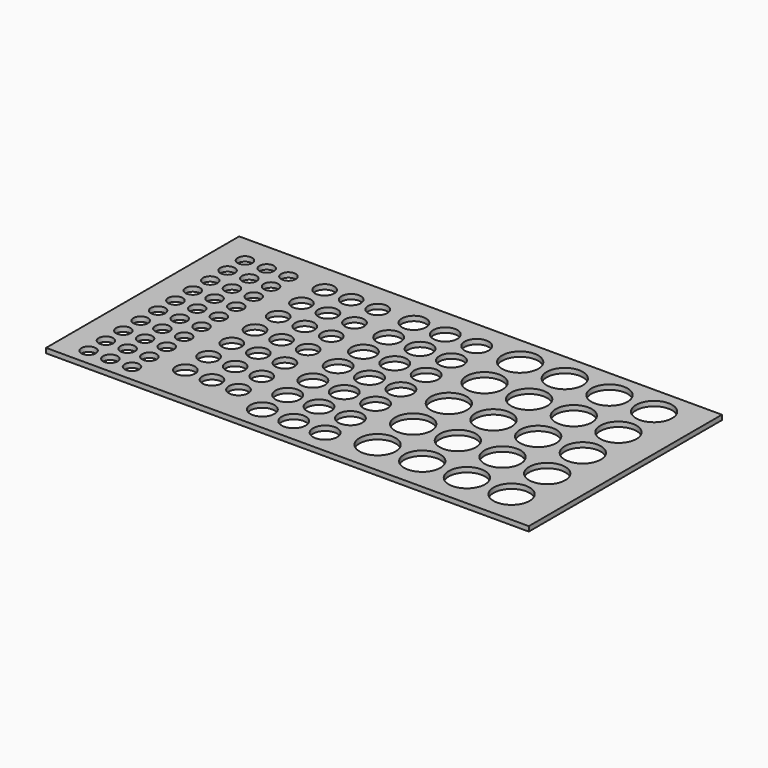
from build123d import *

# Parameters (mm, degrees)
F0_W     = 20
F0_H     = 10
F0_R     = 0.4
F0_R_2   = 0.5
F0_R_3   = 0.75
F1_DEPTH = 0.2


with BuildPart() as f1:
    # F0 (on Top) → F1 (new body)
    with BuildSketch(Plane.XY):
        with Locations((10, -5)):
            Rectangle(F0_W, F0_H)
        with BuildLine():
            add(Edge.make_bspline(
                [(1.477593, -9.413765), (1.524216, -9.3), (1.477593, -9.186235)],
                knots=[0, 0, 0, 0.777896, 0.777896, 0.777896], degree=2, weights=[1, 0.925308, 1]))
            add(Edge.make_bspline(
                [(1.477593, -9.186235), (1.328947, -8.823532), (1.017669, -9.061766), (0.706391, -9.3), (1.017669, -9.538234), (1.328947, -9.776468), (1.477593, -9.413765)],
                knots=[0.777896, 0.777896, 0.777896, 2.612993, 2.612993, 4.448089, 4.448089, 6.283185, 6.283185, 6.283185], degree=2, weights=[1, 0.607769, 1, 0.607769, 1, 0.607769, 1]))
        make_face(mode=Mode.SUBTRACT)
        with BuildLine():
            add(Edge.make_bspline(
                [(2.377593, -9.186235), (2.228947, -8.823532), (1.917669, -9.061766), (1.606391, -9.3), (1.917669, -9.538234), (2.228947, -9.776468), (2.377593, -9.413765)],
                knots=[0, 0, 0, 1.835096, 1.835096, 3.670193, 3.670193, 5.505289, 5.505289, 5.505289], degree=2, weights=[1, 0.607769, 1, 0.607769, 1, 0.607769, 1]))
            add(Edge.make_bspline(
                [(2.377593, -9.413765), (2.424216, -9.3), (2.377593, -9.186235)],
                knots=[5.505289, 5.505289, 5.505289, 6.283185, 6.283185, 6.283185], degree=2, weights=[1, 0.925308, 1]))
        make_face(mode=Mode.SUBTRACT)
        with BuildLine():
            add(Edge.make_bspline(
                [(3.277593, -9.186235), (3.128947, -8.823532), (2.817669, -9.061766), (2.506391, -9.3), (2.817669, -9.538234), (3.128947, -9.776468), (3.277593, -9.413765)],
                knots=[0, 0, 0, 1.835096, 1.835096, 3.670193, 3.670193, 5.505289, 5.505289, 5.505289], degree=2, weights=[1, 0.607769, 1, 0.607769, 1, 0.607769, 1]))
            add(Edge.make_bspline(
                [(3.277593, -9.413765), (3.324216, -9.3), (3.277593, -9.186235)],
                knots=[5.505289, 5.505289, 5.505289, 6.283185, 6.283185, 6.283185], degree=2, weights=[1, 0.925308, 1]))
        make_face(mode=Mode.SUBTRACT)
        with BuildLine():
            add(Edge.make_bspline(
                [(1.477593, -8.513765), (1.524216, -8.4), (1.477593, -8.286235)],
                knots=[0, 0, 0, 0.777896, 0.777896, 0.777896], degree=2, weights=[1, 0.925308, 1]))
            add(Edge.make_bspline(
                [(1.477593, -8.286235), (1.328947, -7.923532), (1.017669, -8.161766), (0.706391, -8.4), (1.017669, -8.638234), (1.328947, -8.876468), (1.477593, -8.513765)],
                knots=[0.777896, 0.777896, 0.777896, 2.612993, 2.612993, 4.448089, 4.448089, 6.283185, 6.283185, 6.283185], degree=2, weights=[1, 0.607769, 1, 0.607769, 1, 0.607769, 1]))
        make_face(mode=Mode.SUBTRACT)
        with BuildLine():
            add(Edge.make_bspline(
                [(2.377593, -8.286235), (2.228947, -7.923532), (1.917669, -8.161766), (1.606391, -8.4), (1.917669, -8.638234), (2.228947, -8.876468), (2.377593, -8.513765)],
                knots=[0, 0, 0, 1.835096, 1.835096, 3.670193, 3.670193, 5.505289, 5.505289, 5.505289], degree=2, weights=[1, 0.607769, 1, 0.607769, 1, 0.607769, 1]))
            add(Edge.make_bspline(
                [(2.377593, -8.513765), (2.424216, -8.4), (2.377593, -8.286235)],
                knots=[5.505289, 5.505289, 5.505289, 6.283185, 6.283185, 6.283185], degree=2, weights=[1, 0.925308, 1]))
        make_face(mode=Mode.SUBTRACT)
        with BuildLine():
            add(Edge.make_bspline(
                [(3.277593, -8.286235), (3.128947, -7.923532), (2.817669, -8.161766), (2.506391, -8.4), (2.817669, -8.638234), (3.128947, -8.876468), (3.277593, -8.513765)],
                knots=[0, 0, 0, 1.835096, 1.835096, 3.670193, 3.670193, 5.505289, 5.505289, 5.505289], degree=2, weights=[1, 0.607769, 1, 0.607769, 1, 0.607769, 1]))
            add(Edge.make_bspline(
                [(3.277593, -8.513765), (3.324216, -8.4), (3.277593, -8.286235)],
                knots=[5.505289, 5.505289, 5.505289, 6.283185, 6.283185, 6.283185], degree=2, weights=[1, 0.925308, 1]))
        make_face(mode=Mode.SUBTRACT)
        with Locations((4.492105, -8.399996)):
            Circle(F0_R, mode=Mode.SUBTRACT)
        with Locations((8.160205, -8.999898)):
            Circle(F0_R_2, mode=Mode.SUBTRACT)
        with Locations((9.460205, -8.999898)):
            Circle(F0_R_2, mode=Mode.SUBTRACT)
        with Locations((5.592105, -8.399996)):
            Circle(F0_R, mode=Mode.SUBTRACT)
        with Locations((6.692105, -8.399996)):
            Circle(F0_R, mode=Mode.SUBTRACT)
        with Locations((8.166837, -7.699915)):
            Circle(F0_R_2, mode=Mode.SUBTRACT)
        with Locations((9.466837, -7.699915)):
            Circle(F0_R_2, mode=Mode.SUBTRACT)
        with BuildLine():
            add(Edge.make_bspline(
                [(1.477593, -7.613765), (1.524216, -7.5), (1.477593, -7.386235)],
                knots=[0, 0, 0, 0.777896, 0.777896, 0.777896], degree=2, weights=[1, 0.925308, 1]))
            add(Edge.make_bspline(
                [(1.477593, -7.386235), (1.328947, -7.023532), (1.017669, -7.261766), (0.706391, -7.5), (1.017669, -7.738234), (1.328947, -7.976468), (1.477593, -7.613765)],
                knots=[0.777896, 0.777896, 0.777896, 2.612993, 2.612993, 4.448089, 4.448089, 6.283185, 6.283185, 6.283185], degree=2, weights=[1, 0.607769, 1, 0.607769, 1, 0.607769, 1]))
        make_face(mode=Mode.SUBTRACT)
        with BuildLine():
            add(Edge.make_bspline(
                [(2.377593, -7.386235), (2.228947, -7.023532), (1.917669, -7.261766), (1.606391, -7.5), (1.917669, -7.738234), (2.228947, -7.976468), (2.377593, -7.613765)],
                knots=[0, 0, 0, 1.835096, 1.835096, 3.670193, 3.670193, 5.505289, 5.505289, 5.505289], degree=2, weights=[1, 0.607769, 1, 0.607769, 1, 0.607769, 1]))
            add(Edge.make_bspline(
                [(2.377593, -7.613765), (2.424216, -7.5), (2.377593, -7.386235)],
                knots=[5.505289, 5.505289, 5.505289, 6.283185, 6.283185, 6.283185], degree=2, weights=[1, 0.925308, 1]))
        make_face(mode=Mode.SUBTRACT)
        with BuildLine():
            add(Edge.make_bspline(
                [(1.477593, -6.713765), (1.524216, -6.6), (1.477593, -6.486235)],
                knots=[0, 0, 0, 0.777896, 0.777896, 0.777896], degree=2, weights=[1, 0.925308, 1]))
            add(Edge.make_bspline(
                [(1.477593, -6.486235), (1.328947, -6.123532), (1.017669, -6.361766), (0.706391, -6.6), (1.017669, -6.838234), (1.328947, -7.076468), (1.477593, -6.713765)],
                knots=[0.777896, 0.777896, 0.777896, 2.612993, 2.612993, 4.448089, 4.448089, 6.283185, 6.283185, 6.283185], degree=2, weights=[1, 0.607769, 1, 0.607769, 1, 0.607769, 1]))
        make_face(mode=Mode.SUBTRACT)
        with BuildLine():
            add(Edge.make_bspline(
                [(2.377593, -6.486235), (2.228947, -6.123532), (1.917669, -6.361766), (1.606391, -6.6), (1.917669, -6.838234), (2.228947, -7.076468), (2.377593, -6.713765)],
                knots=[0, 0, 0, 1.835096, 1.835096, 3.670193, 3.670193, 5.505289, 5.505289, 5.505289], degree=2, weights=[1, 0.607769, 1, 0.607769, 1, 0.607769, 1]))
            add(Edge.make_bspline(
                [(2.377593, -6.713765), (2.424216, -6.6), (2.377593, -6.486235)],
                knots=[5.505289, 5.505289, 5.505289, 6.283185, 6.283185, 6.283185], degree=2, weights=[1, 0.925308, 1]))
        make_face(mode=Mode.SUBTRACT)
        with BuildLine():
            add(Edge.make_bspline(
                [(3.277593, -7.386235), (3.128947, -7.023532), (2.817669, -7.261766), (2.506391, -7.5), (2.817669, -7.738234), (3.128947, -7.976468), (3.277593, -7.613765)],
                knots=[0, 0, 0, 1.835096, 1.835096, 3.670193, 3.670193, 5.505289, 5.505289, 5.505289], degree=2, weights=[1, 0.607769, 1, 0.607769, 1, 0.607769, 1]))
            add(Edge.make_bspline(
                [(3.277593, -7.613765), (3.324216, -7.5), (3.277593, -7.386235)],
                knots=[5.505289, 5.505289, 5.505289, 6.283185, 6.283185, 6.283185], degree=2, weights=[1, 0.925308, 1]))
        make_face(mode=Mode.SUBTRACT)
        with Locations((4.493421, -7.199996)):
            Circle(F0_R, mode=Mode.SUBTRACT)
        with BuildLine():
            add(Edge.make_bspline(
                [(3.277593, -6.486235), (3.128947, -6.123532), (2.817669, -6.361766), (2.506391, -6.6), (2.817669, -6.838234), (3.128947, -7.076468), (3.277593, -6.713765)],
                knots=[0, 0, 0, 1.835096, 1.835096, 3.670193, 3.670193, 5.505289, 5.505289, 5.505289], degree=2, weights=[1, 0.607769, 1, 0.607769, 1, 0.607769, 1]))
            add(Edge.make_bspline(
                [(3.277593, -6.713765), (3.324216, -6.6), (3.277593, -6.486235)],
                knots=[5.505289, 5.505289, 5.505289, 6.283185, 6.283185, 6.283185], degree=2, weights=[1, 0.925308, 1]))
        make_face(mode=Mode.SUBTRACT)
        with BuildLine():
            add(Edge.make_bspline(
                [(1.477593, -5.813765), (1.524216, -5.7), (1.477593, -5.586235)],
                knots=[0, 0, 0, 0.777896, 0.777896, 0.777896], degree=2, weights=[1, 0.925308, 1]))
            add(Edge.make_bspline(
                [(1.477593, -5.586235), (1.328947, -5.223532), (1.017669, -5.461766), (0.706391, -5.7), (1.017669, -5.938234), (1.328947, -6.176468), (1.477593, -5.813765)],
                knots=[0.777896, 0.777896, 0.777896, 2.612993, 2.612993, 4.448089, 4.448089, 6.283185, 6.283185, 6.283185], degree=2, weights=[1, 0.607769, 1, 0.607769, 1, 0.607769, 1]))
        make_face(mode=Mode.SUBTRACT)
        with BuildLine():
            add(Edge.make_bspline(
                [(2.377593, -5.586235), (2.228947, -5.223532), (1.917669, -5.461766), (1.606391, -5.7), (1.917669, -5.938234), (2.228947, -6.176468), (2.377593, -5.813765)],
                knots=[0, 0, 0, 1.835096, 1.835096, 3.670193, 3.670193, 5.505289, 5.505289, 5.505289], degree=2, weights=[1, 0.607769, 1, 0.607769, 1, 0.607769, 1]))
            add(Edge.make_bspline(
                [(2.377593, -5.813765), (2.424216, -5.7), (2.377593, -5.586235)],
                knots=[5.505289, 5.505289, 5.505289, 6.283185, 6.283185, 6.283185], degree=2, weights=[1, 0.925308, 1]))
        make_face(mode=Mode.SUBTRACT)
        with BuildLine():
            add(Edge.make_bspline(
                [(3.277593, -5.586235), (3.128947, -5.223532), (2.817669, -5.461766), (2.506391, -5.7), (2.817669, -5.938234), (3.128947, -6.176468), (3.277593, -5.813765)],
                knots=[0, 0, 0, 1.835096, 1.835096, 3.670193, 3.670193, 5.505289, 5.505289, 5.505289], degree=2, weights=[1, 0.607769, 1, 0.607769, 1, 0.607769, 1]))
            add(Edge.make_bspline(
                [(3.277593, -5.813765), (3.324216, -5.7), (3.277593, -5.586235)],
                knots=[5.505289, 5.505289, 5.505289, 6.283185, 6.283185, 6.283185], degree=2, weights=[1, 0.925308, 1]))
        make_face(mode=Mode.SUBTRACT)
        with Locations((4.494737, -5.999997)):
            Circle(F0_R, mode=Mode.SUBTRACT)
        with Locations((5.593421, -7.199996)):
            Circle(F0_R, mode=Mode.SUBTRACT)
        with Locations((6.693421, -7.199996)):
            Circle(F0_R, mode=Mode.SUBTRACT)
        with Locations((8.17347, -6.399932)):
            Circle(F0_R_2, mode=Mode.SUBTRACT)
        with Locations((9.47347, -6.399932)):
            Circle(F0_R_2, mode=Mode.SUBTRACT)
        with Locations((5.594737, -5.999997)):
            Circle(F0_R, mode=Mode.SUBTRACT)
        with Locations((6.694737, -5.999997)):
            Circle(F0_R, mode=Mode.SUBTRACT)
        with Locations((8.180102, -5.099949)):
            Circle(F0_R_2, mode=Mode.SUBTRACT)
        with Locations((9.480102, -5.099949)):
            Circle(F0_R_2, mode=Mode.SUBTRACT)
        with Locations((10.760205, -8.999898)):
            Circle(F0_R_2, mode=Mode.SUBTRACT)
        with Locations((10.766837, -7.699915)):
            Circle(F0_R_2, mode=Mode.SUBTRACT)
        with Locations((12.614299, -8.599986)):
            Circle(F0_R_3, mode=Mode.SUBTRACT)
        with Locations((14.464299, -8.599986)):
            Circle(F0_R_3, mode=Mode.SUBTRACT)
        with Locations((16.314299, -8.599986)):
            Circle(F0_R_3, mode=Mode.SUBTRACT)
        with Locations((18.164299, -8.599986)):
            Circle(F0_R_3, mode=Mode.SUBTRACT)
        with Locations((10.77347, -6.399932)):
            Circle(F0_R_2, mode=Mode.SUBTRACT)
        with Locations((12.610725, -6.74999)):
            Circle(F0_R_3, mode=Mode.SUBTRACT)
        with Locations((14.460725, -6.74999)):
            Circle(F0_R_3, mode=Mode.SUBTRACT)
        with Locations((10.780102, -5.099949)):
            Circle(F0_R_2, mode=Mode.SUBTRACT)
        with Locations((16.310725, -6.74999)):
            Circle(F0_R_3, mode=Mode.SUBTRACT)
        with Locations((18.160725, -6.74999)):
            Circle(F0_R_3, mode=Mode.SUBTRACT)
        with BuildLine():
            add(Edge.make_bspline(
                [(1.477593, -4.913765), (1.524216, -4.8), (1.477593, -4.686235)],
                knots=[0, 0, 0, 0.777896, 0.777896, 0.777896], degree=2, weights=[1, 0.925308, 1]))
            add(Edge.make_bspline(
                [(1.477593, -4.686235), (1.328947, -4.323532), (1.017669, -4.561766), (0.706391, -4.8), (1.017669, -5.038234), (1.328947, -5.276468), (1.477593, -4.913765)],
                knots=[0.777896, 0.777896, 0.777896, 2.612993, 2.612993, 4.448089, 4.448089, 6.283185, 6.283185, 6.283185], degree=2, weights=[1, 0.607769, 1, 0.607769, 1, 0.607769, 1]))
        make_face(mode=Mode.SUBTRACT)
        with BuildLine():
            add(Edge.make_bspline(
                [(2.377593, -4.686235), (2.228947, -4.323532), (1.917669, -4.561766), (1.606391, -4.8), (1.917669, -5.038234), (2.228947, -5.276468), (2.377593, -4.913765)],
                knots=[0, 0, 0, 1.835096, 1.835096, 3.670193, 3.670193, 5.505289, 5.505289, 5.505289], degree=2, weights=[1, 0.607769, 1, 0.607769, 1, 0.607769, 1]))
            add(Edge.make_bspline(
                [(2.377593, -4.913765), (2.424216, -4.8), (2.377593, -4.686235)],
                knots=[5.505289, 5.505289, 5.505289, 6.283185, 6.283185, 6.283185], degree=2, weights=[1, 0.925308, 1]))
        make_face(mode=Mode.SUBTRACT)
        with BuildLine():
            add(Edge.make_bspline(
                [(1.477593, -4.013765), (1.524216, -3.9), (1.477593, -3.786235)],
                knots=[0, 0, 0, 0.777896, 0.777896, 0.777896], degree=2, weights=[1, 0.925308, 1]))
            add(Edge.make_bspline(
                [(1.477593, -3.786235), (1.328947, -3.423532), (1.017669, -3.661766), (0.706391, -3.9), (1.017669, -4.138234), (1.328947, -4.376468), (1.477593, -4.013765)],
                knots=[0.777896, 0.777896, 0.777896, 2.612993, 2.612993, 4.448089, 4.448089, 6.283185, 6.283185, 6.283185], degree=2, weights=[1, 0.607769, 1, 0.607769, 1, 0.607769, 1]))
        make_face(mode=Mode.SUBTRACT)
        with BuildLine():
            add(Edge.make_bspline(
                [(2.377593, -3.786235), (2.228947, -3.423532), (1.917669, -3.661766), (1.606391, -3.9), (1.917669, -4.138234), (2.228947, -4.376468), (2.377593, -4.013765)],
                knots=[0, 0, 0, 1.835096, 1.835096, 3.670193, 3.670193, 5.505289, 5.505289, 5.505289], degree=2, weights=[1, 0.607769, 1, 0.607769, 1, 0.607769, 1]))
            add(Edge.make_bspline(
                [(2.377593, -4.013765), (2.424216, -3.9), (2.377593, -3.786235)],
                knots=[5.505289, 5.505289, 5.505289, 6.283185, 6.283185, 6.283185], degree=2, weights=[1, 0.925308, 1]))
        make_face(mode=Mode.SUBTRACT)
        with BuildLine():
            add(Edge.make_bspline(
                [(3.277593, -4.686235), (3.128947, -4.323532), (2.817669, -4.561766), (2.506391, -4.8), (2.817669, -5.038234), (3.128947, -5.276468), (3.277593, -4.913765)],
                knots=[0, 0, 0, 1.835096, 1.835096, 3.670193, 3.670193, 5.505289, 5.505289, 5.505289], degree=2, weights=[1, 0.607769, 1, 0.607769, 1, 0.607769, 1]))
            add(Edge.make_bspline(
                [(3.277593, -4.913765), (3.324216, -4.8), (3.277593, -4.686235)],
                knots=[5.505289, 5.505289, 5.505289, 6.283185, 6.283185, 6.283185], degree=2, weights=[1, 0.925308, 1]))
        make_face(mode=Mode.SUBTRACT)
        with Locations((4.496053, -4.799998)):
            Circle(F0_R, mode=Mode.SUBTRACT)
        with BuildLine():
            add(Edge.make_bspline(
                [(3.277593, -3.786235), (3.128947, -3.423532), (2.817669, -3.661766), (2.506391, -3.9), (2.817669, -4.138234), (3.128947, -4.376468), (3.277593, -4.013765)],
                knots=[0, 0, 0, 1.835096, 1.835096, 3.670193, 3.670193, 5.505289, 5.505289, 5.505289], degree=2, weights=[1, 0.607769, 1, 0.607769, 1, 0.607769, 1]))
            add(Edge.make_bspline(
                [(3.277593, -4.013765), (3.324216, -3.9), (3.277593, -3.786235)],
                knots=[5.505289, 5.505289, 5.505289, 6.283185, 6.283185, 6.283185], degree=2, weights=[1, 0.925308, 1]))
        make_face(mode=Mode.SUBTRACT)
        with BuildLine():
            add(Edge.make_bspline(
                [(1.477593, -3.113765), (1.524216, -3), (1.477593, -2.886235)],
                knots=[0, 0, 0, 0.777896, 0.777896, 0.777896], degree=2, weights=[1, 0.925308, 1]))
            add(Edge.make_bspline(
                [(1.477593, -2.886235), (1.328947, -2.523532), (1.017669, -2.761766), (0.706391, -3), (1.017669, -3.238234), (1.328947, -3.476468), (1.477593, -3.113765)],
                knots=[0.777896, 0.777896, 0.777896, 2.612993, 2.612993, 4.448089, 4.448089, 6.283185, 6.283185, 6.283185], degree=2, weights=[1, 0.607769, 1, 0.607769, 1, 0.607769, 1]))
        make_face(mode=Mode.SUBTRACT)
        with BuildLine():
            add(Edge.make_bspline(
                [(2.377593, -2.886235), (2.228947, -2.523532), (1.917669, -2.761766), (1.606391, -3), (1.917669, -3.238234), (2.228947, -3.476468), (2.377593, -3.113765)],
                knots=[0, 0, 0, 1.835096, 1.835096, 3.670193, 3.670193, 5.505289, 5.505289, 5.505289], degree=2, weights=[1, 0.607769, 1, 0.607769, 1, 0.607769, 1]))
            add(Edge.make_bspline(
                [(2.377593, -3.113765), (2.424216, -3), (2.377593, -2.886235)],
                knots=[5.505289, 5.505289, 5.505289, 6.283185, 6.283185, 6.283185], degree=2, weights=[1, 0.925308, 1]))
        make_face(mode=Mode.SUBTRACT)
        with Locations((4.497368, -3.599999)):
            Circle(F0_R, mode=Mode.SUBTRACT)
        with BuildLine():
            add(Edge.make_bspline(
                [(3.277593, -2.886235), (3.128947, -2.523532), (2.817669, -2.761766), (2.506391, -3), (2.817669, -3.238234), (3.128947, -3.476468), (3.277593, -3.113765)],
                knots=[0, 0, 0, 1.835096, 1.835096, 3.670193, 3.670193, 5.505289, 5.505289, 5.505289], degree=2, weights=[1, 0.607769, 1, 0.607769, 1, 0.607769, 1]))
            add(Edge.make_bspline(
                [(3.277593, -3.113765), (3.324216, -3), (3.277593, -2.886235)],
                knots=[5.505289, 5.505289, 5.505289, 6.283185, 6.283185, 6.283185], degree=2, weights=[1, 0.925308, 1]))
        make_face(mode=Mode.SUBTRACT)
        with Locations((5.596053, -4.799998)):
            Circle(F0_R, mode=Mode.SUBTRACT)
        with Locations((6.696053, -4.799998)):
            Circle(F0_R, mode=Mode.SUBTRACT)
        with Locations((8.186735, -3.799966)):
            Circle(F0_R_2, mode=Mode.SUBTRACT)
        with Locations((9.486735, -3.799966)):
            Circle(F0_R_2, mode=Mode.SUBTRACT)
        with Locations((5.597368, -3.599999)):
            Circle(F0_R, mode=Mode.SUBTRACT)
        with Locations((6.697368, -3.599999)):
            Circle(F0_R, mode=Mode.SUBTRACT)
        with BuildLine():
            add(Edge.make_bspline(
                [(1.477593, -2.213765), (1.524216, -2.1), (1.477593, -1.986235)],
                knots=[0, 0, 0, 0.777896, 0.777896, 0.777896], degree=2, weights=[1, 0.925308, 1]))
            add(Edge.make_bspline(
                [(1.477593, -1.986235), (1.328947, -1.623532), (1.017669, -1.861766), (0.706391, -2.1), (1.017669, -2.338234), (1.328947, -2.576468), (1.477593, -2.213765)],
                knots=[0.777896, 0.777896, 0.777896, 2.612993, 2.612993, 4.448089, 4.448089, 6.283185, 6.283185, 6.283185], degree=2, weights=[1, 0.607769, 1, 0.607769, 1, 0.607769, 1]))
        make_face(mode=Mode.SUBTRACT)
        with BuildLine():
            add(Edge.make_bspline(
                [(2.377593, -1.986235), (2.228947, -1.623532), (1.917669, -1.861766), (1.606391, -2.1), (1.917669, -2.338234), (2.228947, -2.576468), (2.377593, -2.213765)],
                knots=[0, 0, 0, 1.835096, 1.835096, 3.670193, 3.670193, 5.505289, 5.505289, 5.505289], degree=2, weights=[1, 0.607769, 1, 0.607769, 1, 0.607769, 1]))
            add(Edge.make_bspline(
                [(2.377593, -2.213765), (2.424216, -2.1), (2.377593, -1.986235)],
                knots=[5.505289, 5.505289, 5.505289, 6.283185, 6.283185, 6.283185], degree=2, weights=[1, 0.925308, 1]))
        make_face(mode=Mode.SUBTRACT)
        with BuildLine():
            add(Edge.make_bspline(
                [(3.277593, -1.986235), (3.128947, -1.623532), (2.817669, -1.861766), (2.506391, -2.1), (2.817669, -2.338234), (3.128947, -2.576468), (3.277593, -2.213765)],
                knots=[0, 0, 0, 1.835096, 1.835096, 3.670193, 3.670193, 5.505289, 5.505289, 5.505289], degree=2, weights=[1, 0.607769, 1, 0.607769, 1, 0.607769, 1]))
            add(Edge.make_bspline(
                [(3.277593, -2.213765), (3.324216, -2.1), (3.277593, -1.986235)],
                knots=[5.505289, 5.505289, 5.505289, 6.283185, 6.283185, 6.283185], degree=2, weights=[1, 0.925308, 1]))
        make_face(mode=Mode.SUBTRACT)
        with Locations((4.498684, -2.399999)):
            Circle(F0_R, mode=Mode.SUBTRACT)
        with BuildLine():
            add(Edge.make_bspline(
                [(1.477593, -1.086235), (1.328947, -0.723532), (1.017669, -0.961766), (0.706391, -1.2), (1.017669, -1.438234), (1.328947, -1.676468), (1.477593, -1.313765)],
                knots=[0, 0, 0, 1.835096, 1.835096, 3.670193, 3.670193, 5.505289, 5.505289, 5.505289], degree=2, weights=[1, 0.607769, 1, 0.607769, 1, 0.607769, 1]))
            add(Edge.make_bspline(
                [(1.477593, -1.313765), (1.524216, -1.2), (1.477593, -1.086235)],
                knots=[5.505289, 5.505289, 5.505289, 6.283185, 6.283185, 6.283185], degree=2, weights=[1, 0.925308, 1]))
        make_face(mode=Mode.SUBTRACT)
        with BuildLine():
            add(Edge.make_bspline(
                [(2.377593, -1.086235), (2.228947, -0.723532), (1.917669, -0.961766), (1.606391, -1.2), (1.917669, -1.438234), (2.228947, -1.676468), (2.377593, -1.313765)],
                knots=[0, 0, 0, 1.835096, 1.835096, 3.670193, 3.670193, 5.505289, 5.505289, 5.505289], degree=2, weights=[1, 0.607769, 1, 0.607769, 1, 0.607769, 1]))
            add(Edge.make_bspline(
                [(2.377593, -1.313765), (2.424216, -1.2), (2.377593, -1.086235)],
                knots=[5.505289, 5.505289, 5.505289, 6.283185, 6.283185, 6.283185], degree=2, weights=[1, 0.925308, 1]))
        make_face(mode=Mode.SUBTRACT)
        with BuildLine():
            add(Edge.make_bspline(
                [(3.277593, -1.086235), (3.128947, -0.723532), (2.817669, -0.961766), (2.506391, -1.2), (2.817669, -1.438234), (3.128947, -1.676468), (3.277593, -1.313765)],
                knots=[0, 0, 0, 1.835096, 1.835096, 3.670193, 3.670193, 5.505289, 5.505289, 5.505289], degree=2, weights=[1, 0.607769, 1, 0.607769, 1, 0.607769, 1]))
            add(Edge.make_bspline(
                [(3.277593, -1.313765), (3.324216, -1.2), (3.277593, -1.086235)],
                knots=[5.505289, 5.505289, 5.505289, 6.283185, 6.283185, 6.283185], degree=2, weights=[1, 0.925308, 1]))
        make_face(mode=Mode.SUBTRACT)
        with Locations((4.5, -1.2)):
            Circle(F0_R, mode=Mode.SUBTRACT)
        with Locations((5.598684, -2.399999)):
            Circle(F0_R, mode=Mode.SUBTRACT)
        with Locations((6.698684, -2.399999)):
            Circle(F0_R, mode=Mode.SUBTRACT)
        with Locations((8.193367, -2.499983)):
            Circle(F0_R_2, mode=Mode.SUBTRACT)
        with Locations((9.493367, -2.499983)):
            Circle(F0_R_2, mode=Mode.SUBTRACT)
        with Locations((5.6, -1.2)):
            Circle(F0_R, mode=Mode.SUBTRACT)
        with Locations((6.7, -1.2)):
            Circle(F0_R, mode=Mode.SUBTRACT)
        with Locations((8.2, -1.2)):
            Circle(F0_R_2, mode=Mode.SUBTRACT)
        with Locations((9.5, -1.2)):
            Circle(F0_R_2, mode=Mode.SUBTRACT)
        with Locations((10.786735, -3.799966)):
            Circle(F0_R_2, mode=Mode.SUBTRACT)
        with Locations((12.60715, -4.899993)):
            Circle(F0_R_3, mode=Mode.SUBTRACT)
        with Locations((14.45715, -4.899993)):
            Circle(F0_R_3, mode=Mode.SUBTRACT)
        with Locations((12.603575, -3.049997)):
            Circle(F0_R_3, mode=Mode.SUBTRACT)
        with Locations((14.453575, -3.049997)):
            Circle(F0_R_3, mode=Mode.SUBTRACT)
        with Locations((16.30715, -4.899993)):
            Circle(F0_R_3, mode=Mode.SUBTRACT)
        with Locations((18.15715, -4.899993)):
            Circle(F0_R_3, mode=Mode.SUBTRACT)
        with Locations((16.303575, -3.049997)):
            Circle(F0_R_3, mode=Mode.SUBTRACT)
        with Locations((18.153575, -3.049997)):
            Circle(F0_R_3, mode=Mode.SUBTRACT)
        with Locations((10.793367, -2.499983)):
            Circle(F0_R_2, mode=Mode.SUBTRACT)
        with Locations((10.8, -1.2)):
            Circle(F0_R_2, mode=Mode.SUBTRACT)
        with Locations((12.6, -1.2)):
            Circle(F0_R_3, mode=Mode.SUBTRACT)
        with Locations((14.45, -1.2)):
            Circle(F0_R_3, mode=Mode.SUBTRACT)
        with Locations((16.3, -1.2)):
            Circle(F0_R_3, mode=Mode.SUBTRACT)
        with Locations((18.15, -1.2)):
            Circle(F0_R_3, mode=Mode.SUBTRACT)
    extrude(amount=F1_DEPTH)


solid = f1.part
